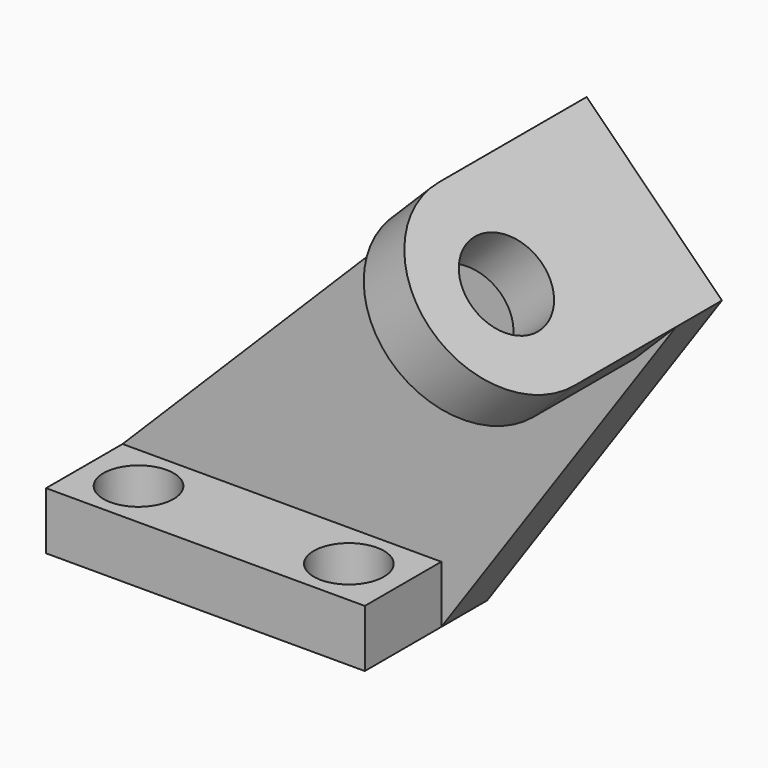
from build123d import *

# Parameters (mm, degrees)
F1_DEPTH = 9
F2_DEPTH = 29
F4_DEPTH = 9
F5_DEPTH = 9
F0_W     = 50
F0_H     = 9
F6_DEPTH = 24
F7_R     = 5.5
F8_DEPTH = 9.001


with BuildPart() as f1:
    # F0 (on Front) → F1 (new body)
    with BuildSketch(Plane.XZ):
        Polygon((50, 9), (50, 0), (86.8198051534, 53.3933982822), (80.4558441227, 47.0294372515), (59.2426406871, 68.2426406871), (0, 9), align=None)
    extrude(amount=F1_DEPTH)

    # F0 (on Front) → F2 (join)
    with BuildSketch(Plane.XZ):
        Polygon((80.4558441227, 47.0294372515), (86.8198051534, 53.3933982822), (65.6066017178, 74.6066017178), (59.2426406871, 68.2426406871), align=None)
    extrude(amount=F2_DEPTH)

    # F3 (on face) → F4 (join)
    with BuildSketch(Plane(origin=(70.1066017178, 0, 70.1066017178), x_dir=(0.7071067812, 0, -0.7071067812), z_dir=(0.7071067812, 0, 0.7071067812))):
        with BuildLine():
            Line((23.6360389693, -29), (15.6360389693, -29))
            ThreePointArc((15.6360389693, -29), (8.6360389693, -36), (1.6360389693, -29))
            Line((1.6360389693, -29), (-6.3639610307, -29))
            ThreePointArc((-6.3639610307, -29), (8.6360389693, -44), (23.6360389693, -29))
        make_face()
    extrude(amount=-F4_DEPTH)

    # F3 (on face) → F5 (cut)
    with BuildSketch(Plane(origin=(70.1066017178, 0, 70.1066017178), x_dir=(0.7071067812, 0, -0.7071067812), z_dir=(0.7071067812, 0, 0.7071067812))):
        with BuildLine():
            Line((1.6360389693, -29), (15.6360389693, -29))
            ThreePointArc((15.6360389693, -29), (8.6360389693, -22), (1.6360389693, -29))
        make_face()
    extrude(amount=-F5_DEPTH, mode=Mode.SUBTRACT)

    # F0 (on Front) → F6 (join)
    with BuildSketch(Plane.XZ):
        with Locations((25, 4.5)):
            Rectangle(F0_W, F0_H)
    extrude(amount=F6_DEPTH)

    # F7 (on face) → F8 (cut, through all)
    with BuildSketch(Plane.XY.offset(9)):
        with Locations((8.5, -16.5)):
            Circle(F7_R)
        with Locations((41.5, -16.5)):
            Circle(F7_R)
    extrude(amount=-F8_DEPTH, mode=Mode.SUBTRACT)


solid = f1.part
